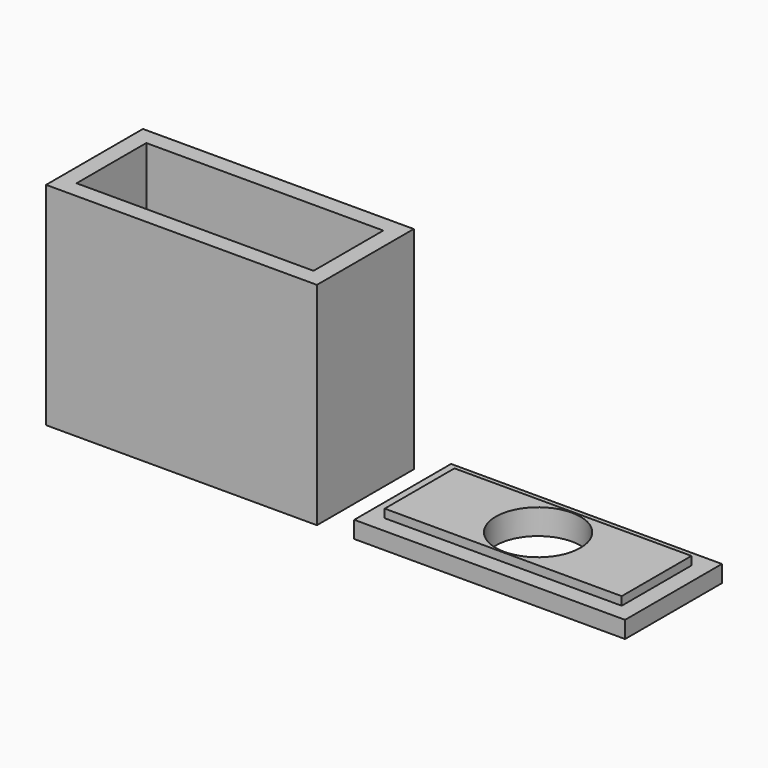
from build123d import *

# Parameters (mm, degrees)
F0_W     = 40.64
F0_H     = 18.161
F1_DEPTH = 31.75
F2_T     = -2.54
F3_W     = 40.64
F3_H     = 18.161
F3_W_2   = 35.56
F3_H_2   = 13.081
F4_DEPTH = 2.54
F3_R     = 6.35
F5_DEPTH = 3.81


with BuildPart() as f1:
    # F0 (on Top) → F1 (new body)
    with BuildSketch(Plane.XY):
        Rectangle(F0_W, F0_H)
    extrude(amount=F1_DEPTH)

    # F2
    f2_openings = [f1.faces().sort_by_distance(p)[0] for p in [
        (0, 0, 31.75),
    ]]
    offset(amount=F2_T, openings=f2_openings)


with BuildPart() as f4:
    # F3 (on Top) → F4 (new body)
    with BuildSketch(Plane.XY):
        with Locations((46.239112, 0)):
            Rectangle(F3_W, F3_H)
        with Locations((46.239112, 0)):
            Rectangle(F3_W_2, F3_H_2, mode=Mode.SUBTRACT)
    extrude(amount=F4_DEPTH)

    # F3 (on Top) → F5 (join)
    with BuildSketch(Plane.XY):
        with Locations((46.239112, 0)):
            Rectangle(F3_W_2, F3_H_2)
        with Locations((46.239112, 0)):
            Circle(F3_R, mode=Mode.SUBTRACT)
    extrude(amount=F5_DEPTH)


solid = Compound([f1.part, f4.part])
